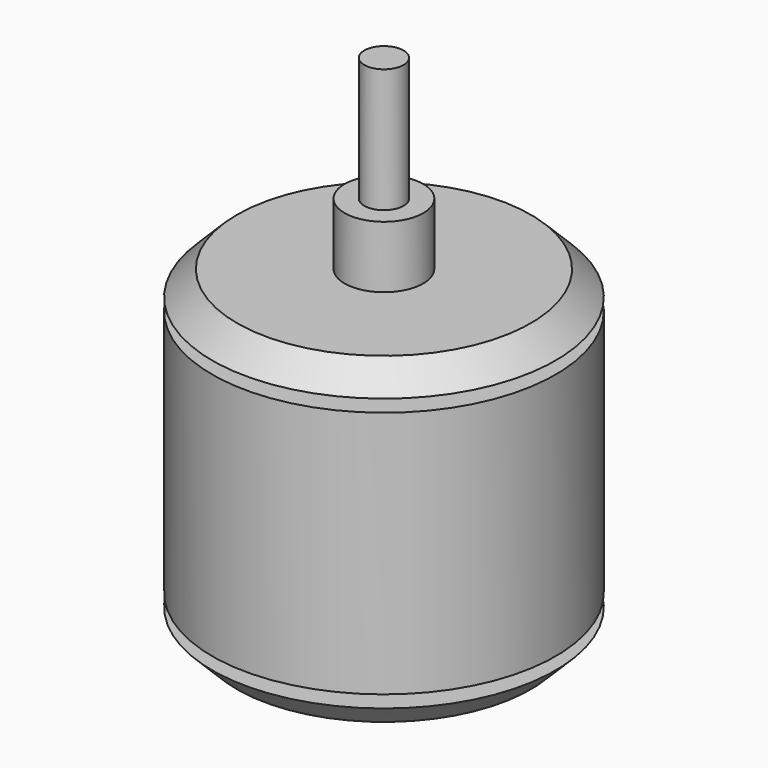
from build123d import *


with BuildPart() as f1:
    # F0 (on Front) → F1 (revolve)
    with BuildSketch(Plane.XZ):
        Polygon((-11.85, 0), (0, 0), (0, 2), (0, 3), (0, 23), (0, 24), (0, 26), (0, 31), (0, 41), (-1.5875, 41), (-1.5875, 31), (-3.175, 31), (-3.175, 26), (-11.85, 26), (-13.85, 24), (-1.5875, 24), (-1.5875, 23), (-13.85, 23), (-13.85, 3), (-1.5875, 3), (-1.5875, 2), (-13.85, 2), align=None)
    revolve(axis=Axis((0, 0, 13), (0, 0, 1)))


solid = f1.part
